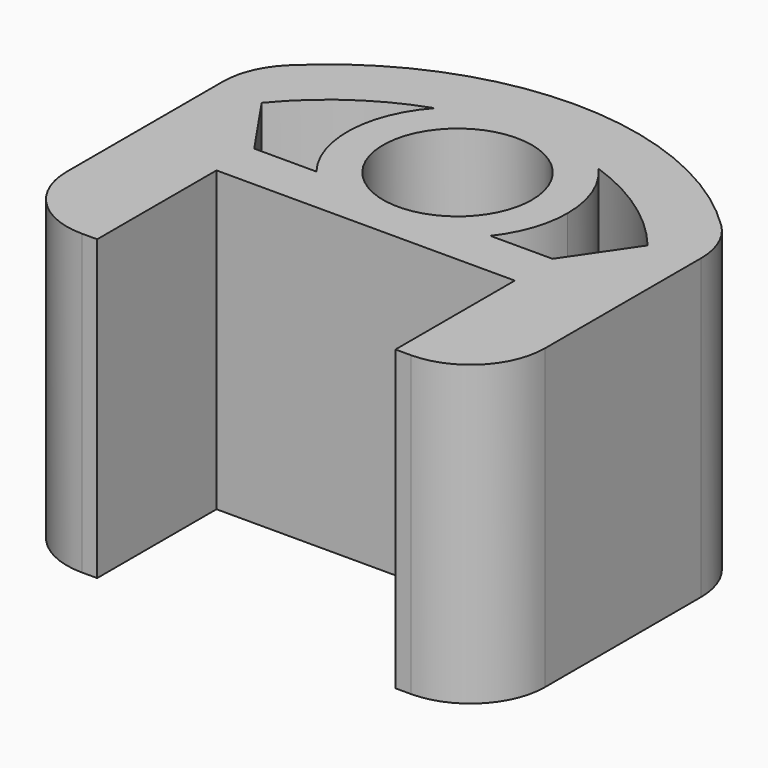
from build123d import *

# Parameters (mm, degrees)
F1_DEPTH = 20


with BuildPart() as f1:
    # F0 (on Top) → F1 (new body)
    with BuildSketch(Plane.XY):
        with BuildLine():
            Line((10, 10), (10, 0))
            Line((10, 0), (11.03011, 0))
            ThreePointArc((11.03011, 0), (14.565644, 1.464466), (16.03011, 5))
            Line((16.03011, 5), (16.03011, 18.067016))
            ThreePointArc((16.03011, 18.067016), (15.640302, 20.00251), (14.531656, 21.636215))
            ThreePointArc((14.531656, 21.636215), (0, 27.574139), (-14.531656, 21.636215))
            ThreePointArc((-14.531656, 21.636215), (-15.640302, 20.00251), (-16.03011, 18.067016))
            Line((-16.03011, 18.067016), (-16.03011, 5))
            ThreePointArc((-16.03011, 5), (-14.565644, 1.464466), (-11.03011, 0))
            Line((-11.03011, 0), (-10, 0))
            Line((-10, 0), (-10, 10))
            Line((-10, 10), (10, 10))
        make_face()
        with BuildLine():
            ThreePointArc((5.831695, 13.162136), (0, 10.311049), (-5.831695, 13.162136))
            Line((-5.831695, 13.162136), (-10, 13.162136))
            Line((-10, 13.162136), (-12.94002, 17.460051))
            ThreePointArc((-12.94002, 17.460051), (-9.572312, 20.569517), (-5.487801, 22.649662))
            ThreePointArc((-5.487801, 22.649662), (0, 25.090452), (5.487801, 22.649662))
            ThreePointArc((5.487801, 22.649662), (9.572312, 20.569517), (12.94002, 17.460051))
            Line((12.94002, 17.460051), (10, 13.162136))
            Line((10, 13.162136), (5.831695, 13.162136))
        make_face(mode=Mode.SUBTRACT)
        with BuildLine():
            ThreePointArc((2.065368, 13.162136), (0, 12.714292), (-2.065368, 13.162136))
            Line((-2.065368, 13.162136), (-5.831695, 13.162136))
            ThreePointArc((-5.831695, 13.162136), (0, 10.311049), (5.831695, 13.162136))
            Line((5.831695, 13.162136), (2.065368, 13.162136))
        make_face()
        with BuildLine():
            ThreePointArc((5.487801, 22.649662), (0, 25.090452), (-5.487801, 22.649662))
            ThreePointArc((-5.487801, 22.649662), (0, 23.574139), (5.487801, 22.649662))
        make_face()
        with BuildLine():
            ThreePointArc((-2.065368, 13.162136), (-2.698694, 21.893818), (4.986458, 17.70075))
            ThreePointArc((4.986458, 17.70075), (4.193068, 15.002057), (2.065368, 13.162136))
            Line((2.065368, 13.162136), (5.831695, 13.162136))
            ThreePointArc((5.831695, 13.162136), (6.989355, 15.301459), (7.389702, 17.70075))
            ThreePointArc((7.389702, 17.70075), (6.897858, 20.351644), (5.487801, 22.649662))
            ThreePointArc((5.487801, 22.649662), (0, 23.574139), (-5.487801, 22.649662))
            ThreePointArc((-5.487801, 22.649662), (-7.384852, 17.968429), (-5.831695, 13.162136))
            Line((-5.831695, 13.162136), (-2.065368, 13.162136))
        make_face()
    extrude(amount=F1_DEPTH)


solid = f1.part
